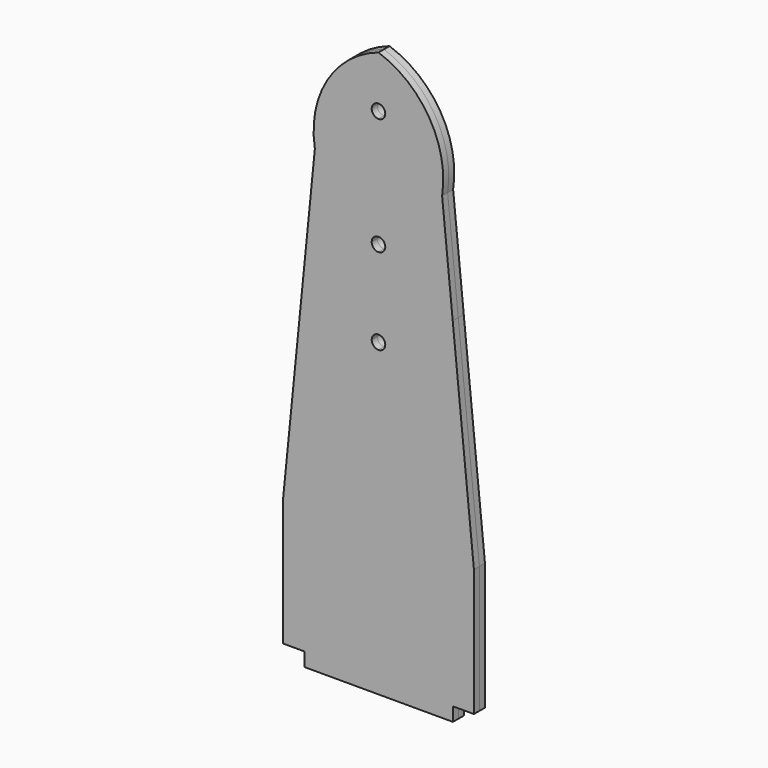
from build123d import *

# Parameters (mm, degrees)
F0_W     = 35
F0_H     = 3.24
F1_DEPTH = 1.625


with BuildPart() as f1:
    # F0 (on Front) → F1 (new body, symmetric)
    with BuildSketch(Plane.XZ):
        with BuildLine():
            ThreePointArc((1.6, 39.85), (1.1313708499, 38.7186291501), (0, 38.25))
            ThreePointArc((0, 38.25), (-1.1313708499, 38.7186291501), (-1.6, 39.85))
            Line((-1.6, 39.85), (-3.4575504251, 39.85))
            Line((-3.4575504251, 39.85), (-3.4575504251, 50))
            Line((-3.4575504251, 50), (-17.5, 50))
            Line((-17.5, 50), (-22.5, 0))
            Line((-22.5, 0), (-22.5, -30))
            Line((-22.5, -30), (-17.4464061856, -30))
            Line((-17.4464061856, -30), (17.5535938144, -30))
            Line((17.5535938144, -30), (22.5, -30))
            Line((22.5, -30), (22.5, 0))
            Line((22.5, 0), (17.5, 50))
            Line((17.5, 50), (3.4575504251, 50))
            Line((3.4575504251, 50), (3.4575504251, 39.85))
            Line((3.4575504251, 39.85), (1.6, 39.85))
        make_face()
        with BuildLine():
            ThreePointArc((1.6, 39.85), (1.1313708499, 38.7186291501), (0, 38.25))
            ThreePointArc((0, 38.25), (-1.1313708499, 38.7186291501), (-1.6, 39.85))
            Line((-1.6, 39.85), (-3.4575504251, 39.85))
            Line((-3.4575504251, 39.85), (-3.4575504251, 50))
            Line((-3.4575504251, 50), (-17.5, 50))
            Line((-17.5, 50), (-22.5, 0))
            Line((-22.5, 0), (-22.5, -30))
            Line((-22.5, -30), (-17.4464061856, -30))
            Line((-17.4464061856, -30), (17.5535938144, -30))
            Line((17.5535938144, -30), (22.5, -30))
            Line((22.5, -30), (22.5, 0))
            Line((22.5, 0), (17.5, 50))
            Line((17.5, 50), (3.4575504251, 50))
            Line((3.4575504251, 50), (3.4575504251, 39.85))
            Line((3.4575504251, 39.85), (1.6, 39.85))
        make_face()
        with Locations((0.0535938144, -31.62)):
            Rectangle(F0_W, F0_H)
        with BuildLine():
            Line((3.4575504251, 60.15), (3.4575504251, 50))
            Line((3.4575504251, 50), (17.5, 50))
            Line((17.5, 50), (15, 75.1086696982))
            Line((15, 75.1086696982), (0, 75.1086696982))
            Line((0, 75.1086696982), (0, 61.75))
            ThreePointArc((0, 61.75), (1.1313708499, 61.2813708499), (1.6, 60.15))
            Line((1.6, 60.15), (3.4575504251, 60.15))
        make_face()
        with BuildLine():
            Line((-17.5, 50), (-3.4575504251, 50))
            Line((-3.4575504251, 50), (-3.4575504251, 60.15))
            Line((-3.4575504251, 60.15), (-1.6, 60.15))
            ThreePointArc((-1.6, 60.15), (-1.1313708499, 61.2813708499), (0, 61.75))
            Line((0, 61.75), (0, 75.1086696982))
            Line((0, 75.1086696982), (-15, 75.1086696982))
            Line((-15, 75.1086696982), (-17.5, 50))
        make_face()
        with BuildLine():
            Line((0, 75.1086696982), (15, 75.1086696982))
            ThreePointArc((15, 75.1086696982), (12.021844725, 90.279286471), (0, 100))
            Line((0, 100), (0, 89.3963155508))
            ThreePointArc((0, 89.3963155508), (1.1313708499, 88.9276864007), (1.6, 87.7963155508))
            ThreePointArc((1.6, 87.7963155508), (1.1313708499, 86.6649447009), (0, 86.1963155508))
            Line((0, 86.1963155508), (0, 75.1086696982))
        make_face()
        with BuildLine():
            ThreePointArc((0, 100), (-12.0829943434, 90.3161364209), (-15, 75.1086696982))
            Line((-15, 75.1086696982), (0, 75.1086696982))
            Line((0, 75.1086696982), (0, 86.1963155508))
            ThreePointArc((0, 86.1963155508), (-1.6, 87.7963155508), (0, 89.3963155508))
            Line((0, 89.3963155508), (0, 100))
        make_face()
        with BuildLine():
            Line((0, 58.55), (0, 50))
            Line((0, 50), (3.4575504251, 50))
            Line((3.4575504251, 50), (3.4575504251, 60.15))
            Line((3.4575504251, 60.15), (1.6, 60.15))
            ThreePointArc((1.6, 60.15), (1.1313708499, 59.0186291501), (0, 58.55))
        make_face()
        with BuildLine():
            Line((-3.4575504251, 50), (0, 50))
            Line((0, 50), (0, 58.55))
            ThreePointArc((0, 58.55), (-1.1313708499, 59.0186291501), (-1.6, 60.15))
            Line((-1.6, 60.15), (-3.4575504251, 60.15))
            Line((-3.4575504251, 60.15), (-3.4575504251, 50))
        make_face()
        with BuildLine():
            Line((-3.4575504251, 39.85), (-1.6, 39.85))
            ThreePointArc((-1.6, 39.85), (-1.1313708499, 40.9813708499), (0, 41.45))
            Line((0, 41.45), (0, 50))
            Line((0, 50), (-3.4575504251, 50))
            Line((-3.4575504251, 50), (-3.4575504251, 39.85))
        make_face()
        with BuildLine():
            ThreePointArc((0, 41.45), (1.1313708499, 40.9813708499), (1.6, 39.85))
            Line((1.6, 39.85), (3.4575504251, 39.85))
            Line((3.4575504251, 39.85), (3.4575504251, 50))
            Line((3.4575504251, 50), (0, 50))
            Line((0, 50), (0, 41.45))
        make_face()
    extrude(amount=F1_DEPTH, both=True)


solid = f1.part
